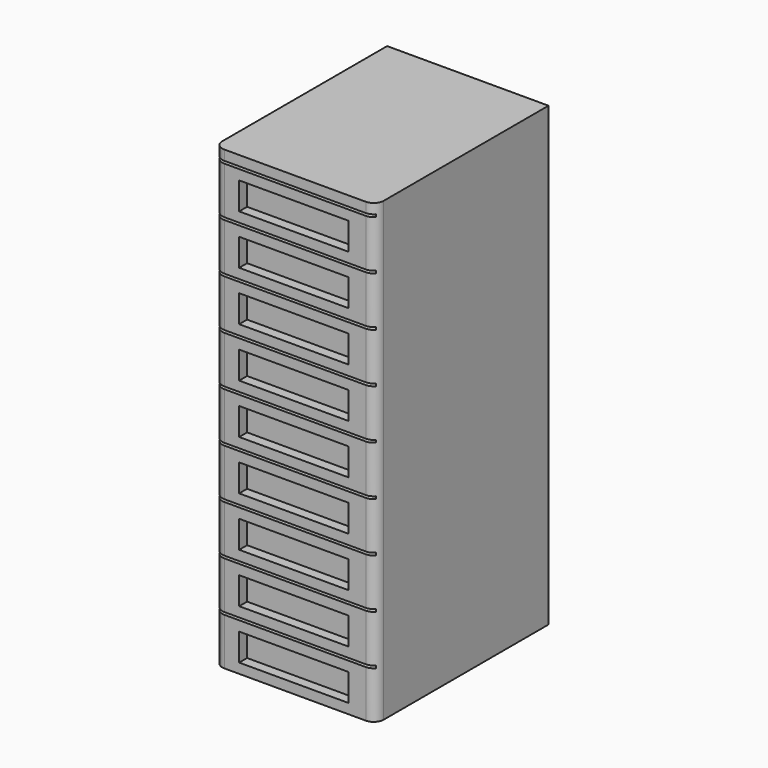
from build123d import *

# Parameters (mm, degrees)
PAD009_DEPTH        = 920
SKETCH017_W         = 220
SKETCH017_H         = 55
SKETCH017_W_2       = 320
SKETCH017_H_2       = 5
POCKET002_DEPTH     = 20
LINEARPATTERN_COUNT = 9
LINEARPATTERN_PITCH = 100


with BuildPart() as part:
    # Sketch016 → Pad009 (new body)
    with BuildSketch(Plane.XY):
        with BuildLine():
            Line((20, 0), (305, 0))
            ThreePointArc((305, 0), (319.142136, 5.857864), (325, 20))
            Line((325, 20), (325, 435))
            Line((325, 435), (0, 435))
            Line((0, 435), (0, 20))
            ThreePointArc((0, 20), (5.857864, 5.857864), (20, 0))
        make_face()
    extrude(amount=PAD009_DEPTH)

    # Sketch017 → Pocket002 (cut)
    with BuildSketch(Plane.XZ):
        with Locations((160, 47.5)):
            Rectangle(SKETCH017_W, SKETCH017_H)
        with Locations((160, 97.5)):
            Rectangle(SKETCH017_W_2, SKETCH017_H_2)
    pocket002 = extrude(amount=-POCKET002_DEPTH, mode=Mode.SUBTRACT)

    # LinearPattern: Pocket002 ×9
    with Locations(*[(0, 0, i * LINEARPATTERN_PITCH) for i in range(1, LINEARPATTERN_COUNT)]):
        add(pocket002, mode=Mode.SUBTRACT)


with BuildPart() as part_1:
    # Clone003 placement: moved
    add(part.part.moved(Location((0, -217.5, 350))))


solid = part_1.part
